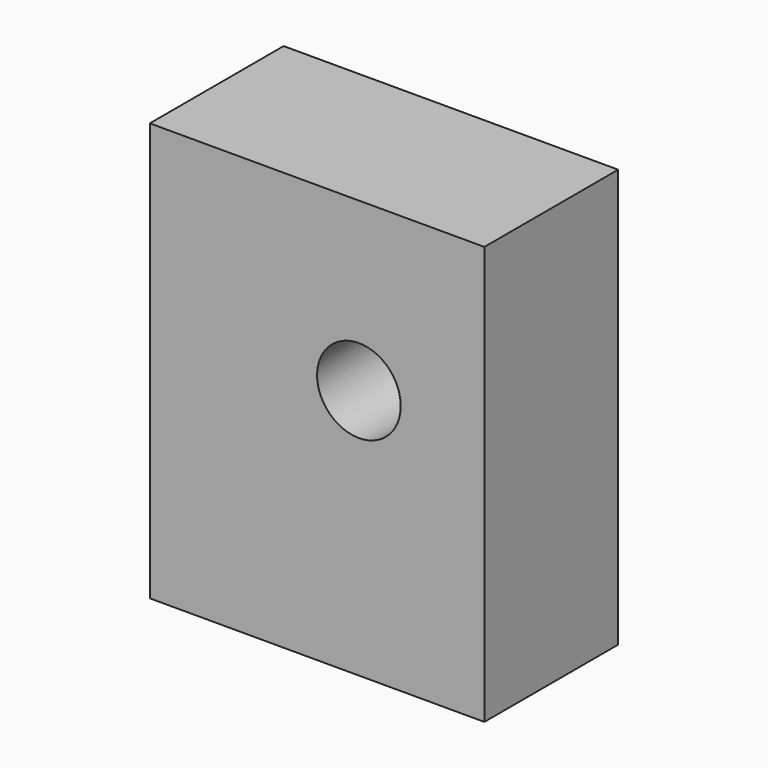
from build123d import *

# Parameters (mm, degrees)
F0_W     = 101.6
F0_H     = 127
F2_DEPTH = 50.8
F1_R     = 12.7
F3_DEPTH = 50.801


with BuildPart() as f2:
    # F0 (on Front) → F2 (new body)
    with BuildSketch(Plane.XZ):
        Rectangle(F0_W, F0_H)
    extrude(amount=-F2_DEPTH)

    # F1 (on face) → F3 (cut, through all)
    with BuildSketch(Plane.XZ):
        with Locations((12.7, 12.7)):
            Circle(F1_R)
    extrude(amount=-F3_DEPTH, mode=Mode.SUBTRACT)


solid = f2.part
